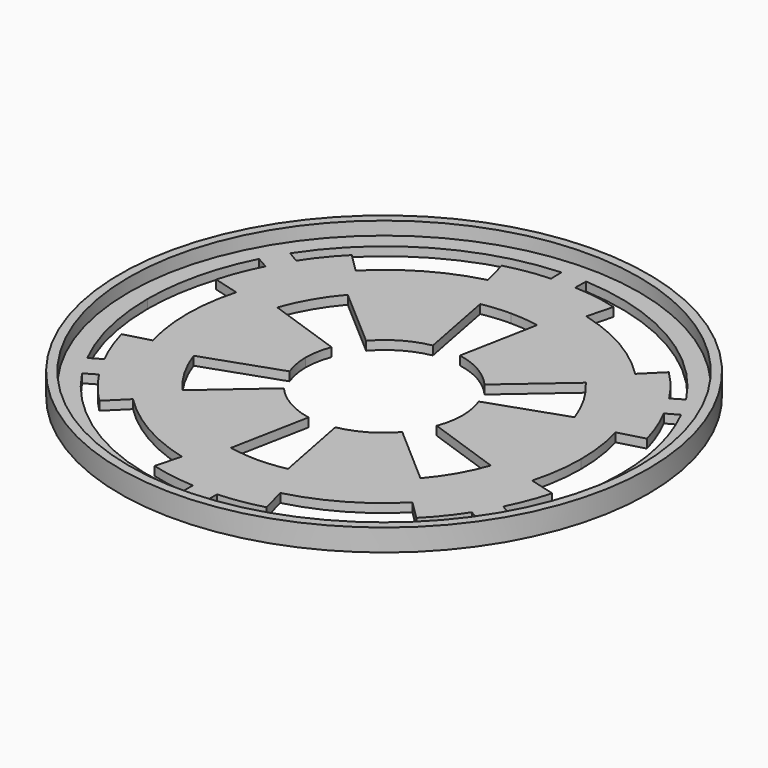
from build123d import *

# Parameters (mm, degrees)
F0_R     = 60
F1_DEPTH = 5
F3_DEPTH = 5.001
F4_R     = 58
F5_DEPTH = 3


with BuildPart() as f1:
    # F0 (on Top) → F1 (new body)
    with BuildSketch(Plane.XY):
        Circle(F0_R)
    extrude(amount=F1_DEPTH)

    # F2 (on face) → F3 (cut, through all)
    with BuildSketch(Plane.XY.offset(5)):
        with BuildLine():
            Line((-2.741307, 50.860289), (-2.800394, 53.905666))
            ThreePointArc((-2.800394, 53.905666), (-26.810197, 46.78331), (-44.999208, 29.568246))
            Line((-44.999208, 29.568246), (-42.39098, 27.998535))
            ThreePointArc((-42.39098, 27.998535), (-39.422273, 32.097611), (-36.032442, 35.855893))
            Line((-36.032442, 35.855893), (-31.764433, 31.624433))
            ThreePointArc((-31.764433, 31.624433), (-22.28061, 38.940283), (-11.190111, 43.46415))
            Line((-11.190111, 43.46415), (-12.704825, 49.321402))
            ThreePointArc((-12.704825, 49.321402), (-7.767263, 50.377001), (-2.741307, 50.860289))
        make_face()
        with BuildLine():
            Line((-53.808689, 0), (-44.738998, 0))
            ThreePointArc((-44.738998, 0), (-44.333174, 5.994104), (-43.11711, 11.877569))
            Line((-43.11711, 11.877569), (-48.95667, 13.487858))
            ThreePointArc((-48.95667, 13.487858), (-47.364057, 18.296418), (-45.259964, 22.904178))
            Line((-45.259964, 22.904178), (-47.967557, 24.430441))
            ThreePointArc((-47.967557, 24.430441), (-52.328709, 12.559654), (-53.808689, 0))
        make_face()
        with BuildLine():
            ThreePointArc((-43.11711, -11.832559), (-44.330124, -5.971391), (-44.738998, 0))
            Line((-44.738998, 0), (-53.808689, 0))
            ThreePointArc((-53.808689, 0), (-52.334607, -12.524554), (-47.995206, -24.365457))
            Line((-47.995206, -24.365457), (-45.342475, -22.814272))
            ThreePointArc((-45.342475, -22.814272), (-47.380636, -18.21008), (-48.948068, -13.42512))
            Line((-48.948068, -13.42512), (-43.11711, -11.832559))
        make_face()
        with BuildLine():
            Line((-42.377204, -28.020563), (-45.023724, -29.548192))
            ThreePointArc((-45.023724, -29.548192), (-26.781507, -46.767749), (-2.742129, -53.937126))
            Line((-2.742129, -53.937126), (-2.742129, -50.906584))
            ThreePointArc((-2.742129, -50.906584), (-7.777308, -50.376699), (-12.725699, -49.305607))
            Line((-12.725699, -49.305607), (-11.188747, -43.482557))
            ThreePointArc((-11.188747, -43.482557), (-22.268417, -38.947418), (-31.75433, -31.643718))
            Line((-31.75433, -31.643718), (-36.039297, -35.877891))
            ThreePointArc((-36.039297, -35.877891), (-39.414393, -32.115507), (-42.377204, -28.020563))
        make_face()
        with BuildLine():
            Line((0, -36.08707), (0, 0))
            Line((0, 0), (-17.828856, 0))
            ThreePointArc((-17.828856, 0), (-17.551636, -3.026807), (-16.733946, -5.954228))
            Line((-16.733946, -5.954228), (-33.773992, -11.896965))
            ThreePointArc((-33.773992, -11.896965), (-30.963522, -18.016735), (-27.060224, -23.504412))
            Line((-27.060224, -23.504412), (-13.459581, -11.657408))
            ThreePointArc((-13.459581, -11.657408), (-8.750525, -15.531259), (-3.038921, -17.66656))
            Line((-3.038921, -17.66656), (-6.482814, -35.405271))
            ThreePointArc((-6.482814, -35.405271), (-3.256267, -35.887467), (0, -36.08707))
        make_face()
        with BuildLine():
            Line((17.828856, 0), (0, 0))
            Line((0, 0), (0, -36.08707))
            ThreePointArc((0, -36.08707), (3.256267, -35.887467), (6.482814, -35.405271))
            Line((6.482814, -35.405271), (3.038921, -17.66656))
            ThreePointArc((3.038921, -17.66656), (8.750525, -15.531259), (13.459581, -11.657408))
            Line((13.459581, -11.657408), (27.060224, -23.504412))
            ThreePointArc((27.060224, -23.504412), (30.963522, -18.016735), (33.773992, -11.896965))
            Line((33.773992, -11.896965), (16.733946, -5.954228))
            ThreePointArc((16.733946, -5.954228), (17.551636, -3.026807), (17.828856, 0))
        make_face()
        with BuildLine():
            Line((0, 36.015704), (0, 0))
            Line((0, 0), (17.828856, 0))
            ThreePointArc((17.828856, 0), (17.554095, 3.040658), (16.733946, 5.981483))
            Line((16.733946, 5.981483), (33.78848, 11.882508))
            ThreePointArc((33.78848, 11.882508), (30.964356, 18.004289), (27.054407, 23.496481))
            Line((27.054407, 23.496481), (13.461306, 11.712858))
            ThreePointArc((13.461306, 11.712858), (8.780542, 15.595833), (3.079093, 17.712558))
            Line((3.079093, 17.712558), (6.480865, 35.418753))
            ThreePointArc((6.480865, 35.418753), (3.252606, 35.849388), (0, 36.015704))
        make_face()
        with BuildLine():
            Line((-17.828856, 0), (0, 0))
            Line((0, 0), (0, 36.015704))
            ThreePointArc((0, 36.015704), (-3.252606, 35.849388), (-6.480865, 35.418753))
            Line((-6.480865, 35.418753), (-3.079093, 17.712558))
            ThreePointArc((-3.079093, 17.712558), (-8.780542, 15.595833), (-13.461306, 11.712858))
            Line((-13.461306, 11.712858), (-27.054407, 23.496481))
            ThreePointArc((-27.054407, 23.496481), (-30.964356, 18.004289), (-33.78848, 11.882508))
            Line((-33.78848, 11.882508), (-16.733946, 5.981483))
            ThreePointArc((-16.733946, 5.981483), (-17.554095, 3.040658), (-17.828856, 0))
        make_face()
        with BuildLine():
            Line((2.742129, -50.906584), (2.742129, -53.937126))
            ThreePointArc((2.742129, -53.937126), (26.781507, -46.767749), (45.023724, -29.548192))
            Line((45.023724, -29.548192), (42.377204, -28.020563))
            ThreePointArc((42.377204, -28.020563), (39.414393, -32.115507), (36.039297, -35.877891))
            Line((36.039297, -35.877891), (31.75433, -31.643718))
            ThreePointArc((31.75433, -31.643718), (22.268417, -38.947418), (11.188747, -43.482557))
            Line((11.188747, -43.482557), (12.725699, -49.305607))
            ThreePointArc((12.725699, -49.305607), (7.777308, -50.376699), (2.742129, -50.906584))
        make_face()
        with BuildLine():
            ThreePointArc((43.11711, 11.877569), (44.333174, 5.994104), (44.738998, 0))
            Line((44.738998, 0), (53.808689, 0))
            ThreePointArc((53.808689, 0), (52.328709, 12.559654), (47.967557, 24.430441))
            Line((47.967557, 24.430441), (45.259964, 22.904178))
            ThreePointArc((45.259964, 22.904178), (47.364057, 18.296418), (48.95667, 13.487858))
            Line((48.95667, 13.487858), (43.11711, 11.877569))
        make_face()
        with BuildLine():
            Line((53.808689, 0), (44.738998, 0))
            ThreePointArc((44.738998, 0), (44.330124, -5.971391), (43.11711, -11.832559))
            Line((43.11711, -11.832559), (48.948068, -13.42512))
            ThreePointArc((48.948068, -13.42512), (47.380636, -18.21008), (45.342475, -22.814272))
            Line((45.342475, -22.814272), (47.995206, -24.365457))
            ThreePointArc((47.995206, -24.365457), (52.334607, -12.524554), (53.808689, 0))
        make_face()
        with BuildLine():
            Line((42.39098, 27.998535), (44.999208, 29.568246))
            ThreePointArc((44.999208, 29.568246), (26.810197, 46.78331), (2.800394, 53.905666))
            Line((2.800394, 53.905666), (2.741307, 50.860289))
            ThreePointArc((2.741307, 50.860289), (7.767263, 50.377001), (12.704825, 49.321402))
            Line((12.704825, 49.321402), (11.190111, 43.46415))
            ThreePointArc((11.190111, 43.46415), (22.28061, 38.940283), (31.764433, 31.624433))
            Line((31.764433, 31.624433), (36.032442, 35.855893))
            ThreePointArc((36.032442, 35.855893), (39.422273, 32.097611), (42.39098, 27.998535))
        make_face()
    extrude(amount=-F3_DEPTH, mode=Mode.SUBTRACT)

    # F4 (on face) → F5 (cut)
    with BuildSketch(Plane.XY.offset(5)):
        Circle(F4_R)
    extrude(amount=-F5_DEPTH, mode=Mode.SUBTRACT)


solid = f1.part
